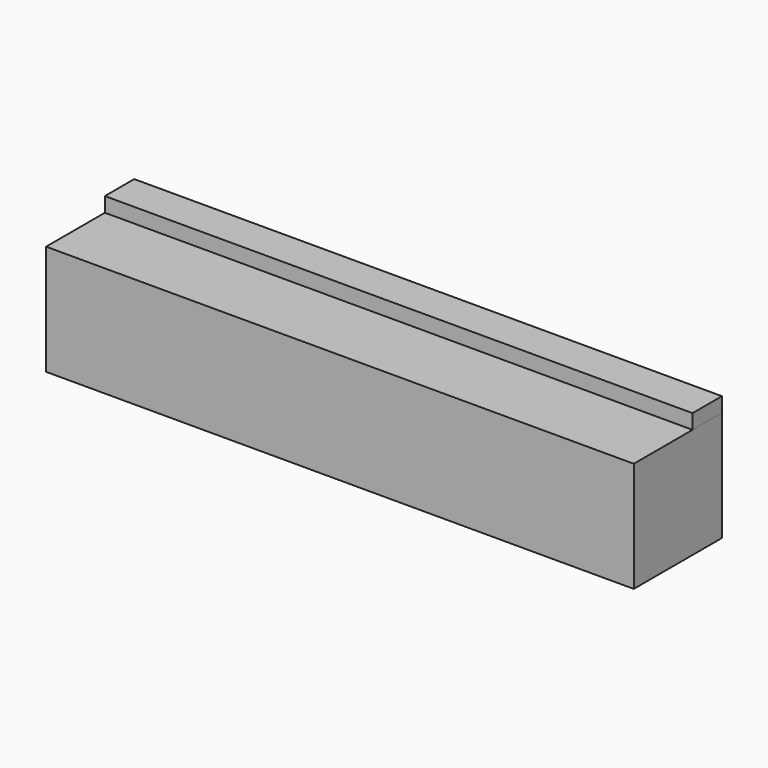
from build123d import *

# Parameters (mm, degrees)
F0_W          = 76.2
F0_H          = 76.2
F1_DEPTH      = 203.2
F1_DEPTH_BACK = 203.2
F2_W          = 25.4
F2_H          = 10.16
F3_DEPTH      = 203.2
F3_DEPTH_BACK = 203.2


with BuildPart() as f1:
    # F0 (on Right) → F1 (new body, two sides)
    with BuildSketch(Plane.YZ) as f1_sk:
        Rectangle(F0_W, F0_H)
    extrude(amount=-F1_DEPTH)
    extrude(f1_sk.sketch, amount=F1_DEPTH_BACK)


with BuildPart() as f3:
    # F2 (on Right) → F3 (new body, two sides)
    with BuildSketch(Plane.YZ) as f3_sk:
        with Locations((25.4, 43.18)):
            Rectangle(F2_W, F2_H)
    extrude(amount=F3_DEPTH)
    extrude(f3_sk.sketch, amount=-F3_DEPTH_BACK)


solid = Compound([f1.part, f3.part])
